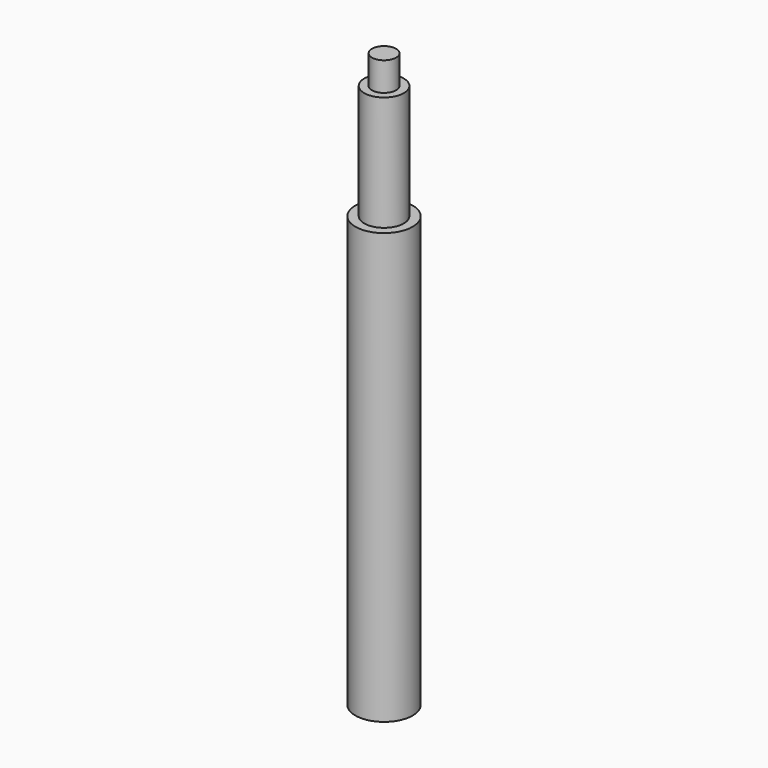
from build123d import *

# Parameters (mm, degrees)
F0_R     = 5
F1_DEPTH = 75
F2_R     = 3.45
F3_DEPTH = 20
F4_R     = 2.1
F5_DEPTH = 5
F6_R     = 2.1
F7_DEPTH = 10


with BuildPart() as f1:
    # F0 (on Top) → F1 (new body)
    with BuildSketch(Plane.XY):
        Circle(F0_R)
    extrude(amount=F1_DEPTH)

    # F2 (on face) → F3 (join)
    with BuildSketch(Plane.XY.offset(75)):
        Circle(F2_R)
    extrude(amount=F3_DEPTH)

    # F4 (on face) → F5 (join)
    with BuildSketch(Plane.XY.offset(95)):
        Circle(F4_R)
    extrude(amount=F5_DEPTH)

    # F6 (on face) → F7 (cut)
    with BuildSketch(Plane(origin=(0, 0, 0), x_dir=(1, 0, 0), z_dir=(0, 0, -1))):
        Circle(F6_R)
    extrude(amount=-F7_DEPTH, mode=Mode.SUBTRACT)


solid = f1.part
